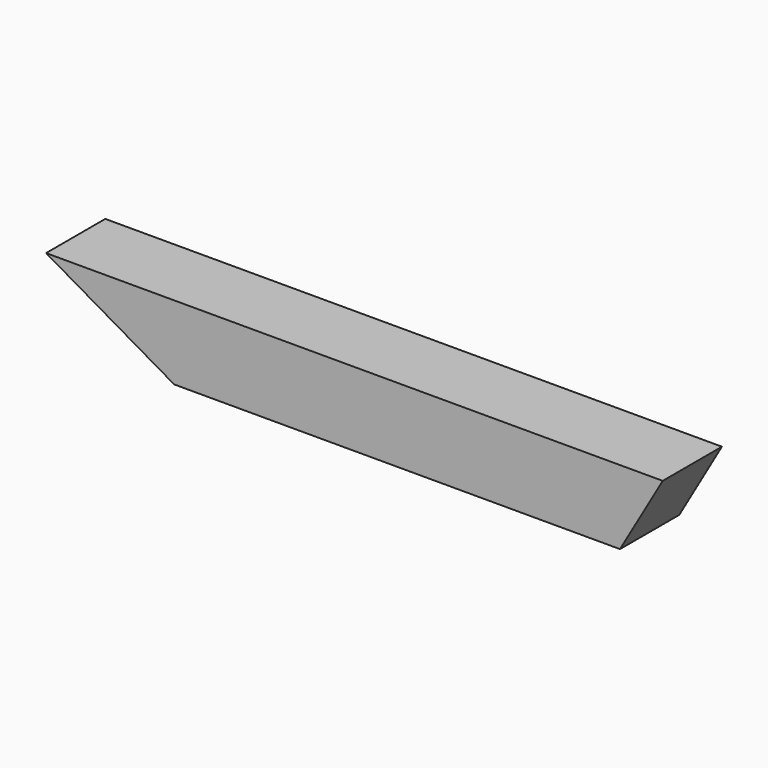
from build123d import *

# Parameters (mm, degrees)
F0_W     = 60
F0_H     = 60
F1_DEPTH = 500
F3_DEPTH = 60.001


with BuildPart() as f1:
    # F0 (on Right) → F1 (new body)
    with BuildSketch(Plane.YZ):
        with Locations((30, 30)):
            Rectangle(F0_W, F0_H)
    extrude(amount=-F1_DEPTH)

    # F2 (on face) → F3 (cut, through all)
    with BuildSketch(Plane.XZ):
        Polygon((-396.076952, 0), (-500, 60), (-500, 0), align=None)
        Polygon((0, 0), (0, 60), (-34.641016, 0), align=None)
    extrude(amount=-F3_DEPTH, mode=Mode.SUBTRACT)


solid = f1.part
